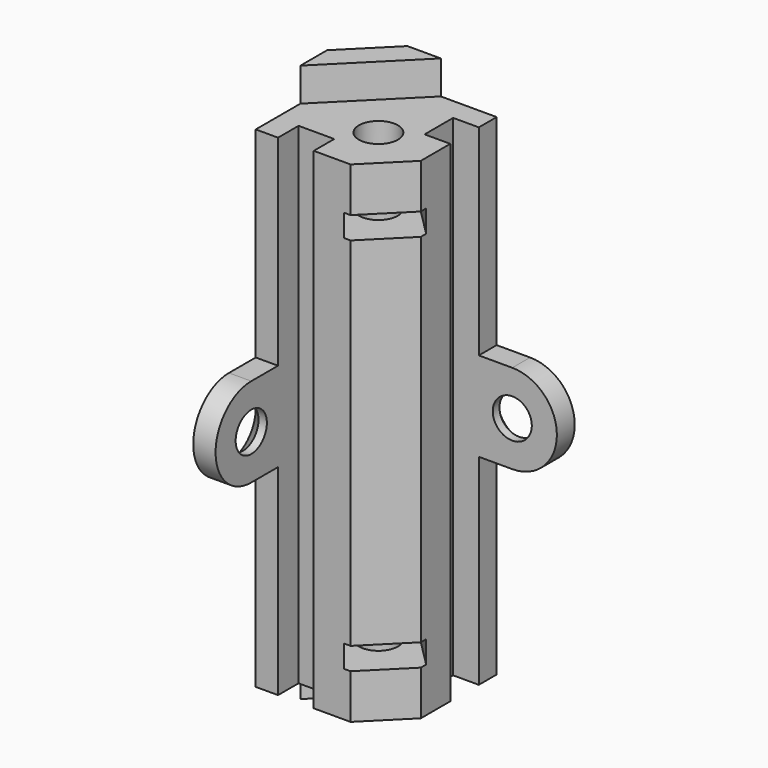
from build123d import *

# Parameters (mm, degrees)
SKETCH_R        = 1.75
PAD_DEPTH       = 25
SKETCH001_W     = 18
SKETCH001_H     = 3
POCKET_DEPTH    = 9.55
SKETCH002_W     = 5.8
SKETCH002_H     = 2
POCKET001_DEPTH = 9
SKETCH003_W     = 3.2
SKETCH003_H     = 2.3
SKETCH003_W_2   = 2.3
SKETCH003_H_2   = 3.2
POCKET002_DEPTH = 50.001
SKETCH004_R     = 1.75
PAD001_DEPTH    = 2
SKETCH005_R     = 1.75
PAD002_DEPTH    = 2
CHAMFER_SIZE    = 1.25


with BuildPart() as part:
    # Sketch → Pad (new body, symmetric)
    with BuildSketch(Plane.XY):
        Polygon((0, -4), (4, 0), (12, 0), (12, -8.5), (8.5, -12), (0, -12), align=None)
        with Locations((7, -7)):
            Circle(SKETCH_R, mode=Mode.SUBTRACT)
    extrude(amount=PAD_DEPTH, both=True)

    # Sketch001 (on Face4 of Pad) → Pocket (cut)
    with BuildSketch(Plane(origin=(10.25, -10.25, 0), x_dir=(0.707107, 0.707107, 0), z_dir=(0.707107, -0.707107, 0))):
        with Locations((0, 23.5)):
            Rectangle(SKETCH001_W, SKETCH001_H)
        with Locations((0, -23.5)):
            Rectangle(SKETCH001_W, SKETCH001_H)
    extrude(amount=-POCKET_DEPTH, mode=Mode.SUBTRACT)

    # Sketch002 (on Face12 of Pocket) → Pocket001 (cut)
    with BuildSketch(Plane(origin=(10.25, -10.25, 0), x_dir=(0.707107, 0.707107, 0), z_dir=(0.707107, -0.707107, 0))):
        with Locations((0, 17)):
            Rectangle(SKETCH002_W, SKETCH002_H)
        with Locations((0, -17)):
            Rectangle(SKETCH002_W, SKETCH002_H)
    extrude(amount=-POCKET001_DEPTH, mode=Mode.SUBTRACT)

    # Sketch003 (on Face4 of Pocket001) → Pocket002 (cut, through all)
    with BuildSketch(Plane(origin=(0, 0, -25), x_dir=(1, 0, 0), z_dir=(0, 0, -1))):
        with Locations((3.6, 10.85)):
            Rectangle(SKETCH003_W, SKETCH003_H)
        with Locations((10.85, 3.6)):
            Rectangle(SKETCH003_W_2, SKETCH003_H_2)
    extrude(amount=-POCKET002_DEPTH, mode=Mode.SUBTRACT)

    # Sketch004 (on Face2 of Pocket002) → Pad001 (join)
    with BuildSketch(Plane(origin=(0, 0, 0), x_dir=(0, -1, 0), z_dir=(-1, 0, 0))):
        with BuildLine():
            Line((12, 4), (15, 4))
            ThreePointArc((15, -4), (19, 0), (15, 4))
            Line((15, -4), (12, -4))
            Line((12, -4), (12, 4))
        make_face()
        with Locations((15, 0)):
            Circle(SKETCH004_R, mode=Mode.SUBTRACT)
    extrude(amount=-PAD001_DEPTH)

    # Sketch005 (on Face3 of Pad001) → Pad002 (join)
    with BuildSketch(Plane(origin=(0, 0, 0), x_dir=(-1, 0, 0), z_dir=(0, 1, 0))):
        with BuildLine():
            Line((-12, 4), (-15, 4))
            ThreePointArc((-15, 4), (-19, 0), (-15, -4))
            Line((-15, -4), (-12, -4))
            Line((-12, -4), (-12, 4))
        make_face()
        with Locations((-15, 0)):
            Circle(SKETCH005_R, mode=Mode.SUBTRACT)
    extrude(amount=-PAD002_DEPTH)

    # Chamfer
    chamfer_edges = [part.edges().sort_by_distance(p)[0] for p in [
        (16.75, 0, 0),
        (0, -13.25, 0),
    ]]
    chamfer(chamfer_edges, length=CHAMFER_SIZE)


solid = part.part
